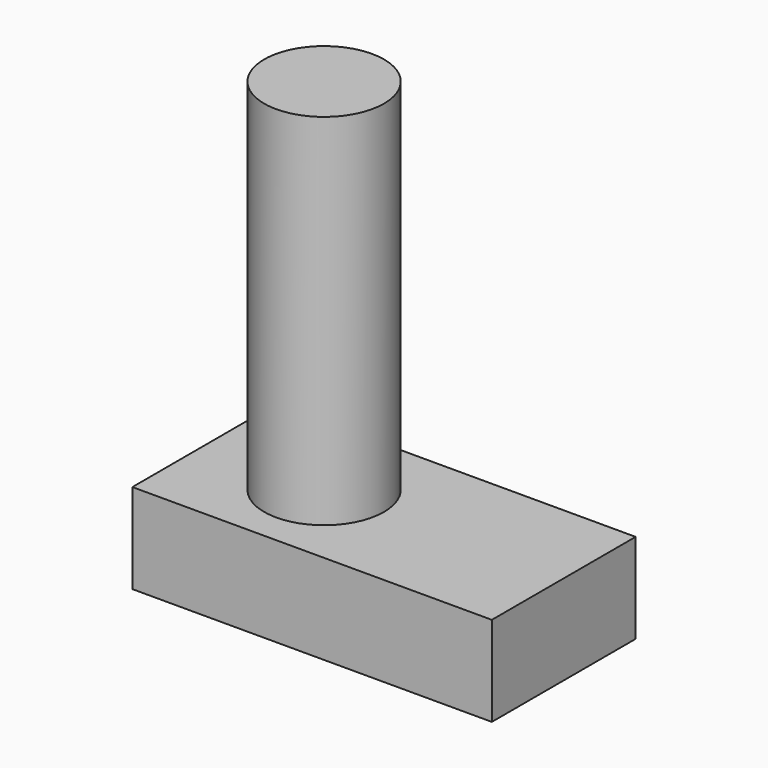
from build123d import *

# Parameters (mm, degrees)
F0_R     = 2
F1_DEPTH = 6
F2_W     = 12
F2_H     = 6
F3_DEPTH = 3


with BuildPart() as f1:
    # F0 (on Top) → F1 (new body, symmetric)
    with BuildSketch(Plane.XY):
        Circle(F0_R)
    extrude(amount=F1_DEPTH, both=True)

    # F2 (on face) → F3 (join)
    with BuildSketch(Plane(origin=(0, 0, -6), x_dir=(1, 0, 0), z_dir=(0, 0, -1))):
        with Locations((2, 0)):
            Rectangle(F2_W, F2_H)
    extrude(amount=F3_DEPTH)


solid = f1.part
